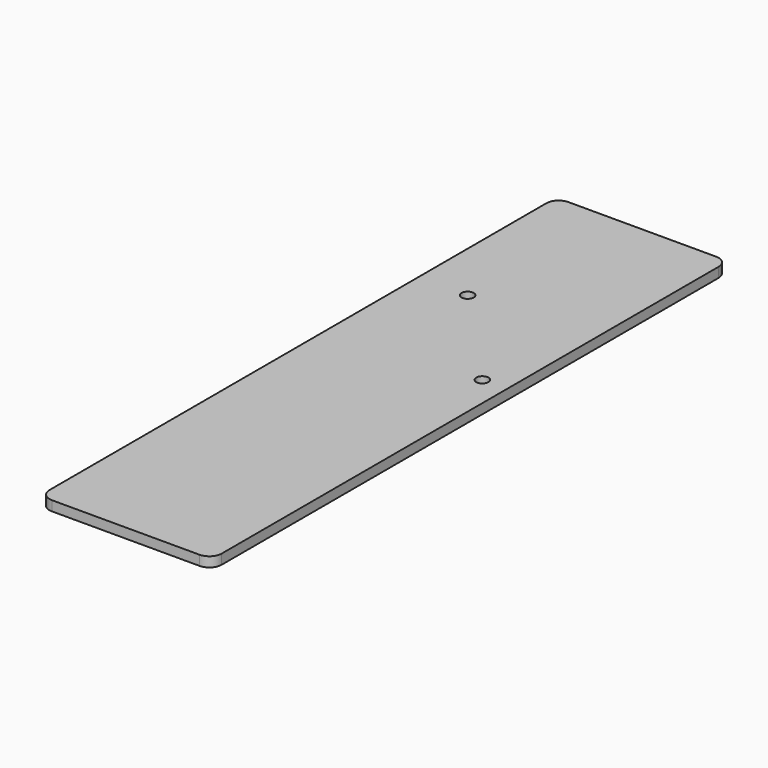
from build123d import *

# Parameters (mm, degrees)
SKETCH172_W     = 28
SKETCH172_H     = 105
PAD044_DEPTH    = 1.6
SKETCH173_R     = 1
POCKET023_DEPTH = 5
FILLET020_R     = 2


with BuildPart() as part:
    # Sketch172 (on DatumPlane) → Pad044 (new body)
    with BuildSketch(Plane(origin=(0, 19.5, -5), x_dir=(1, 0, 0), z_dir=(0, 0, 1))):
        with Locations((0, -40.5)):
            Rectangle(SKETCH172_W, SKETCH172_H)
    extrude(amount=PAD044_DEPTH)

    # Sketch173 → Pocket023 (cut)
    with BuildSketch(Plane.XY):
        with Locations((10, -13.5)):
            Circle(SKETCH173_R)
        with Locations((-6, 3.5)):
            Circle(SKETCH173_R)
    extrude(amount=-POCKET023_DEPTH, mode=Mode.SUBTRACT)

    # Fillet020
    fillet020_edges = [part.edges().sort_by_distance(p)[0] for p in [
        (14, 31.5, -4.2),
        (-14, 31.5, -4.2),
        (14, -73.5, -4.2),
        (-14, -73.5, -4.2),
    ]]
    fillet(fillet020_edges, radius=FILLET020_R)


solid = part.part
